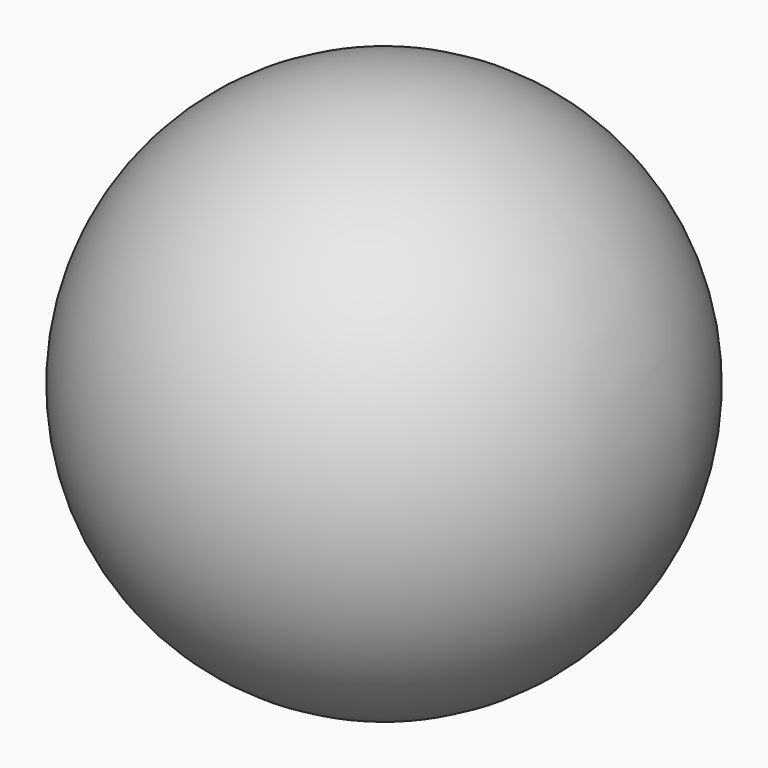
from build123d import *

# Parameters (mm, degrees)
BOX001_W         = 10
BOX001_H         = 10
BOX001_DEPTH     = 10
ARRAY001_X_COUNT = 3
ARRAY001_X_PITCH = 20
ARRAY001_Y_COUNT = 3
ARRAY001_Y_PITCH = 20
BOX002_W         = 10
BOX002_H         = 10
BOX002_DEPTH     = 10
ARRAY002_X_COUNT = 2
ARRAY002_X_PITCH = 20
ARRAY002_Y_COUNT = 2
ARRAY002_Y_PITCH = 20
BOX003_W         = 10
BOX003_H         = 10
BOX003_DEPTH     = 10
BOX_W            = 10
BOX_H            = 10
BOX_DEPTH        = 10
ARRAY_X_COUNT    = 4
ARRAY_X_PITCH    = 20
ARRAY_Y_COUNT    = 4
ARRAY_Y_PITCH    = 20
BOX005_W         = 10
BOX005_H         = 10
BOX005_DEPTH     = 10
ARRAY004_X_COUNT = 3
ARRAY004_X_PITCH = 20
ARRAY004_Y_COUNT = 3
ARRAY004_Y_PITCH = 20
BOX006_W         = 10
BOX006_H         = 10
BOX006_DEPTH     = 10
ARRAY005_X_COUNT = 2
ARRAY005_X_PITCH = 20
ARRAY005_Y_COUNT = 2
ARRAY005_Y_PITCH = 20
BOX007_W         = 10
BOX007_H         = 10
BOX007_DEPTH     = 10
BOX004_W         = 10
BOX004_H         = 10
BOX004_DEPTH     = 10
ARRAY003_X_COUNT = 4
ARRAY003_X_PITCH = 20
ARRAY003_Y_COUNT = 4
ARRAY003_Y_PITCH = 20


with BuildPart() as array001:
    # Box001 → Box001 (new body)
    with BuildSketch(Plane.XY):
        with Locations((5, 5)):
            Rectangle(BOX001_W, BOX001_H)
    extrude(amount=BOX001_DEPTH)

    # Array001 X: Array001 ×3


with BuildPart() as array001_1:
    add(array001.part)
    with Locations(*[(i * ARRAY001_X_PITCH, 0, 0) for i in range(1, ARRAY001_X_COUNT)]):
        add(array001.part)

    # Array001 Y: Array001 ×3


with BuildPart() as array001_2:
    add(array001_1.part)
    with Locations(*[(0, i * ARRAY001_Y_PITCH, 0) for i in range(1, ARRAY001_Y_COUNT)]):
        add(array001_1.part)


with BuildPart() as array001_3:
    # Array001 placement: moved
    add(array001_2.part.moved(Location((10, 10, 10))))


with BuildPart() as array002:
    # Box002 → Box002 (new body)
    with BuildSketch(Plane.XY):
        with Locations((5, 5)):
            Rectangle(BOX002_W, BOX002_H)
    extrude(amount=BOX002_DEPTH)

    # Array002 X: Array002 ×2


with BuildPart() as array002_1:
    add(array002.part)
    with Locations(*[(i * ARRAY002_X_PITCH, 0, 0) for i in range(1, ARRAY002_X_COUNT)]):
        add(array002.part)

    # Array002 Y: Array002 ×2


with BuildPart() as array002_2:
    add(array002_1.part)
    with Locations(*[(0, i * ARRAY002_Y_PITCH, 0) for i in range(1, ARRAY002_Y_COUNT)]):
        add(array002_1.part)


with BuildPart() as array002_3:
    # Array002 placement: moved
    add(array002_2.part.moved(Location((20, 20, 20))))


with BuildPart() as box003:
    # Box003 → Box003 (new body)
    with BuildSketch(Plane(origin=(30, 30, 30), x_dir=(1, 0, 0), z_dir=(0, 0, 1))):
        with Locations((5, 5)):
            Rectangle(BOX003_W, BOX003_H)
    extrude(amount=BOX003_DEPTH)


with BuildPart() as fusion:
    # Box → Box (new body)
    with BuildSketch(Plane.XY):
        with Locations((5, 5)):
            Rectangle(BOX_W, BOX_H)
    extrude(amount=BOX_DEPTH)

    # Array X: Fusion ×4


with BuildPart() as fusion_1:
    add(fusion.part)
    with Locations(*[(i * ARRAY_X_PITCH, 0, 0) for i in range(1, ARRAY_X_COUNT)]):
        add(fusion.part)

    # Array Y: Fusion ×4


with BuildPart() as fusion_2:
    add(fusion_1.part)
    with Locations(*[(0, i * ARRAY_Y_PITCH, 0) for i in range(1, ARRAY_Y_COUNT)]):
        add(fusion_1.part)

    # Fusion: union Array001, Array002, Box003
    add(array001_3.part)
    add(array002_3.part)
    add(box003.part)


with BuildPart() as array004:
    # Box005 → Box005 (new body)
    with BuildSketch(Plane.XY):
        with Locations((5, 5)):
            Rectangle(BOX005_W, BOX005_H)
    extrude(amount=BOX005_DEPTH)

    # Array004 X: Array004 ×3


with BuildPart() as array004_1:
    add(array004.part)
    with Locations(*[(i * ARRAY004_X_PITCH, 0, 0) for i in range(1, ARRAY004_X_COUNT)]):
        add(array004.part)

    # Array004 Y: Array004 ×3


with BuildPart() as array004_2:
    add(array004_1.part)
    with Locations(*[(0, i * ARRAY004_Y_PITCH, 0) for i in range(1, ARRAY004_Y_COUNT)]):
        add(array004_1.part)


with BuildPart() as array004_3:
    # Array004 placement: moved
    add(array004_2.part.moved(Location((10, 10, 20))))


with BuildPart() as array005:
    # Box006 → Box006 (new body)
    with BuildSketch(Plane.XY):
        with Locations((5, 5)):
            Rectangle(BOX006_W, BOX006_H)
    extrude(amount=BOX006_DEPTH)

    # Array005 X: Array005 ×2


with BuildPart() as array005_1:
    add(array005.part)
    with Locations(*[(i * ARRAY005_X_PITCH, 0, 0) for i in range(1, ARRAY005_X_COUNT)]):
        add(array005.part)

    # Array005 Y: Array005 ×2


with BuildPart() as array005_2:
    add(array005_1.part)
    with Locations(*[(0, i * ARRAY005_Y_PITCH, 0) for i in range(1, ARRAY005_Y_COUNT)]):
        add(array005_1.part)


with BuildPart() as array005_3:
    # Array005 placement: moved
    add(array005_2.part.moved(Location((20, 20, 10))))


with BuildPart() as box007:
    # Box007 → Box007 (new body)
    with BuildSketch(Plane(origin=(30, 30, 0), x_dir=(1, 0, 0), z_dir=(0, 0, 1))):
        with Locations((5, 5)):
            Rectangle(BOX007_W, BOX007_H)
    extrude(amount=BOX007_DEPTH)


with BuildPart() as fusion001:
    # Box004 → Box004 (new body)
    with BuildSketch(Plane.XY):
        with Locations((5, 5)):
            Rectangle(BOX004_W, BOX004_H)
    extrude(amount=BOX004_DEPTH)

    # Array003 X: Fusion001 ×4


with BuildPart() as fusion001_1:
    add(fusion001.part)
    with Locations(*[(i * ARRAY003_X_PITCH, 0, 0) for i in range(1, ARRAY003_X_COUNT)]):
        add(fusion001.part)

    # Array003 Y: Fusion001 ×4


with BuildPart() as fusion001_2:
    add(fusion001_1.part)
    with Locations(*[(0, i * ARRAY003_Y_PITCH, 0) for i in range(1, ARRAY003_Y_COUNT)]):
        add(fusion001_1.part)


with BuildPart() as fusion001_3:
    # Array003 placement: moved
    add(fusion001_2.part.moved(Location((0, 0, 30))))

    # Fusion001: union Array004, Array005, Box007
    add(array004_3.part)
    add(array005_3.part)
    add(box007.part)


with BuildPart() as fusion001_4:
    # Fusion001 placement: moved
    add(fusion001_3.part.moved(Location((0, 0, -40))))


with BuildPart() as esfera:
    # Sphere → Sphere (revolve)
    with BuildSketch(Plane(origin=(35, 35, 0), x_dir=(1, 0, 0), z_dir=(0, -1, 0))):
        with BuildLine():
            ThreePointArc((0, -55), (55, 0), (0, 55))
            Line((0, 55), (0, -55))
        make_face()
    revolve(axis=Axis((35, 35, 0), (0, 0, 1)))


solid = Compound([fusion_2.part, fusion001_4.part, esfera.part])
